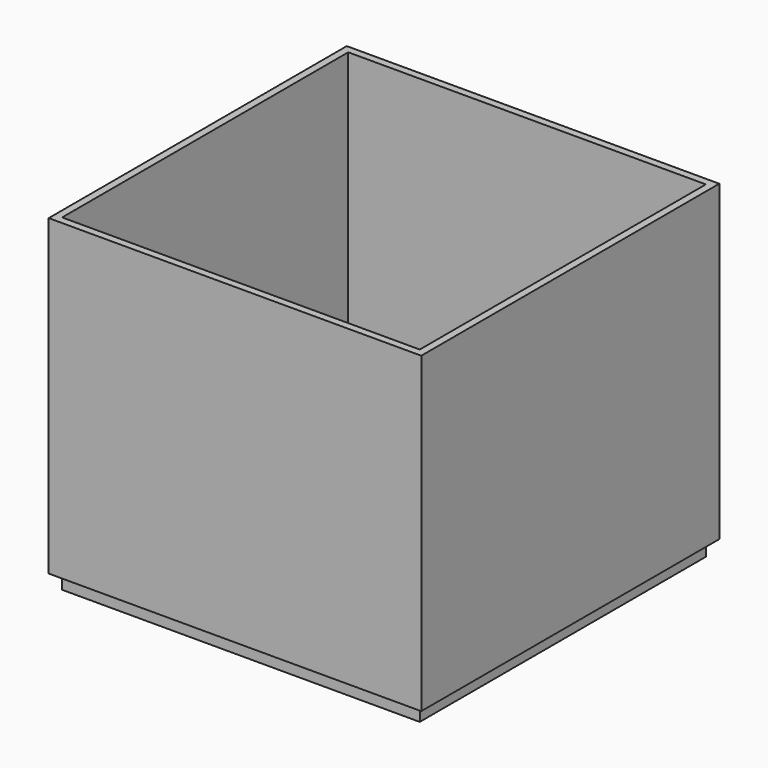
from build123d import *

# Parameters (mm, degrees)
SKETCH001_W  = 317.5
SKETCH001_H  = 317.5
PAD001_DEPTH = 266.7
SKETCH_W     = 304.8
SKETCH_H     = 304.8
POCKET_DEPTH = 254.001
SKETCH002_W  = 304.8
SKETCH002_H  = 304.8
PAD_DEPTH    = 12.7


with BuildPart() as part:
    # Sketch001 → Pad001 (new body)
    with BuildSketch(Plane.XY):
        Rectangle(SKETCH001_W, SKETCH001_H)
    extrude(amount=PAD001_DEPTH)

    # Sketch → Pocket (cut, through all)
    with BuildSketch(Plane.XY.offset(12.7)):
        Rectangle(SKETCH_W, SKETCH_H)
    extrude(amount=POCKET_DEPTH, mode=Mode.SUBTRACT)

    # Sketch002 → Pad (join)
    with BuildSketch(Plane.XY):
        Rectangle(SKETCH002_W, SKETCH002_H)
    extrude(amount=-PAD_DEPTH)


solid = part.part
